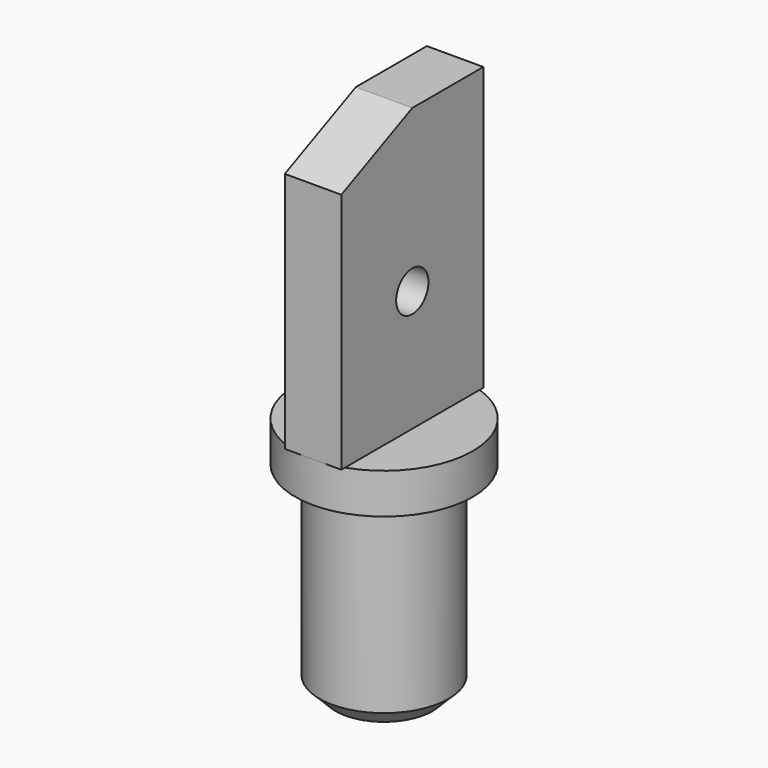
from build123d import *

# Parameters (mm, degrees)
F0_R     = 11
F1_DEPTH = 5
F3_DEPTH = 3.5
F5_DEPTH = 14.501
F6_R     = 2.5
F7_DEPTH = 14.501
F8_R     = 8
F9_DEPTH = 25
F10_SIZE = 2


with BuildPart() as f1:
    # F0 (on Top) → F1 (new body)
    with BuildSketch(Plane.XY):
        Circle(F0_R)
    extrude(amount=F1_DEPTH)

    # F2 (on Right) → F3 (join, symmetric)
    with BuildSketch(Plane.YZ):
        Polygon((-11, 5), (0, 5), (11, 5), (11, 40), (-11, 40), align=None)
    extrude(amount=F3_DEPTH, both=True)

    # F4 (on face) → F5 (cut, through all)
    with BuildSketch(Plane.YZ.offset(3.5)):
        Polygon((-11, 35), (0, 40), (-11, 40), align=None)
    extrude(amount=-F5_DEPTH, mode=Mode.SUBTRACT)

    # F6 (on face) → F7 (cut, through all)
    with BuildSketch(Plane.YZ.offset(3.5)):
        with Locations((0, 20)):
            Circle(F6_R)
    extrude(amount=-F7_DEPTH, mode=Mode.SUBTRACT)

    # F8 (on face) → F9 (join)
    with BuildSketch(Plane(origin=(0, 0, 0), x_dir=(1, 0, 0), z_dir=(0, 0, -1))):
        Circle(F8_R)
    extrude(amount=F9_DEPTH)

    # F10
    f10_edges = [f1.edges().sort_by_distance(p)[0] for p in [
        (-8, 0, -25),
    ]]
    chamfer(f10_edges, length=F10_SIZE)


solid = f1.part
